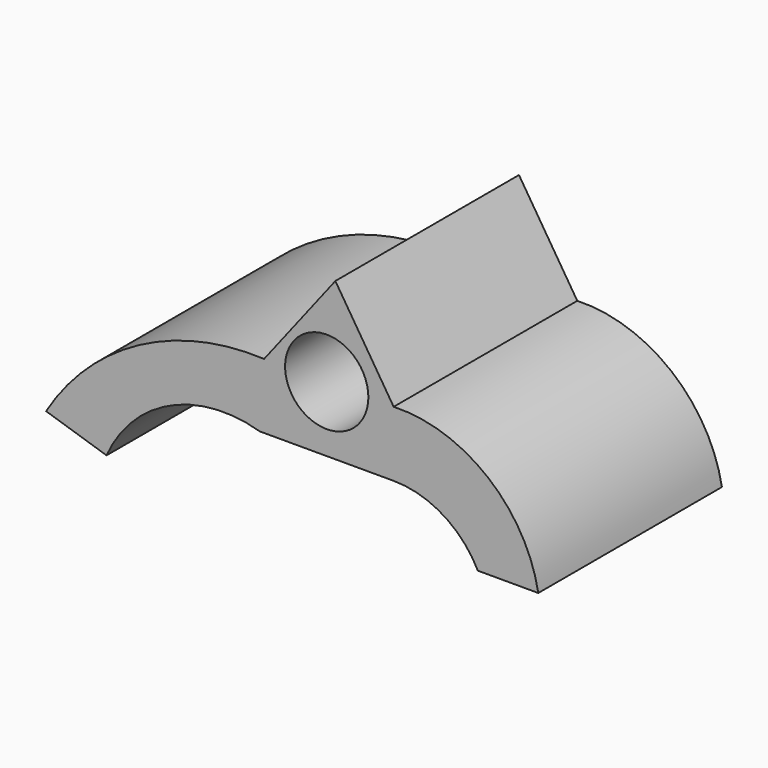
from build123d import *

# Parameters (mm, degrees)
F0_R     = 9.2152651148
F1_DEPTH = 25.4
F2_DEPTH = 25.4


with BuildPart() as f1:
    # F0 (on Front) → F1 (new body)
    with BuildSketch(Plane.XZ):
        with BuildLine():
            Line((8.2426741719, 34.7528494895), (-7.5259176083, 14.4322579727))
            ThreePointArc((-7.5259176083, 14.4322579727), (-35.2148528902, 8.1293541005), (-55.787358433, -11.445521377))
            Line((-55.787358433, -11.445521377), (-42.4079485238, -15.7064311206))
            ThreePointArc((-42.4079485238, -15.7064311206), (-28.4103249807, -1.4475318002), (-8.4815938026, 0))
            Line((-8.4815938026, 0), (21.1442448199, 0))
            ThreePointArc((21.1442448199, 0), (32.0791169706, -3.0898465651), (39.7798493505, -11.445521377))
            Line((39.7798493505, -11.445521377), (53.159262985, -11.445521377))
            ThreePointArc((53.159262985, -11.445521377), (41.9892736465, 7.4781663126), (21.1442448199, 14.4322579727))
            Line((21.1442448199, 14.4322579727), (8.2426741719, 34.7528494895))
        make_face()
        with Locations((6.3313255087, 14.4718699157)):
            Circle(F0_R, mode=Mode.SUBTRACT)
    extrude(amount=F1_DEPTH)

    # F2 (add): a face of the model
    f2_faces = [f1.faces().sort_by_distance(p)[0] for p in [
        (1.1481336388, -25.4, 4.4851792598),
    ]]
    extrude(f2_faces, amount=F2_DEPTH)


solid = f1.part
